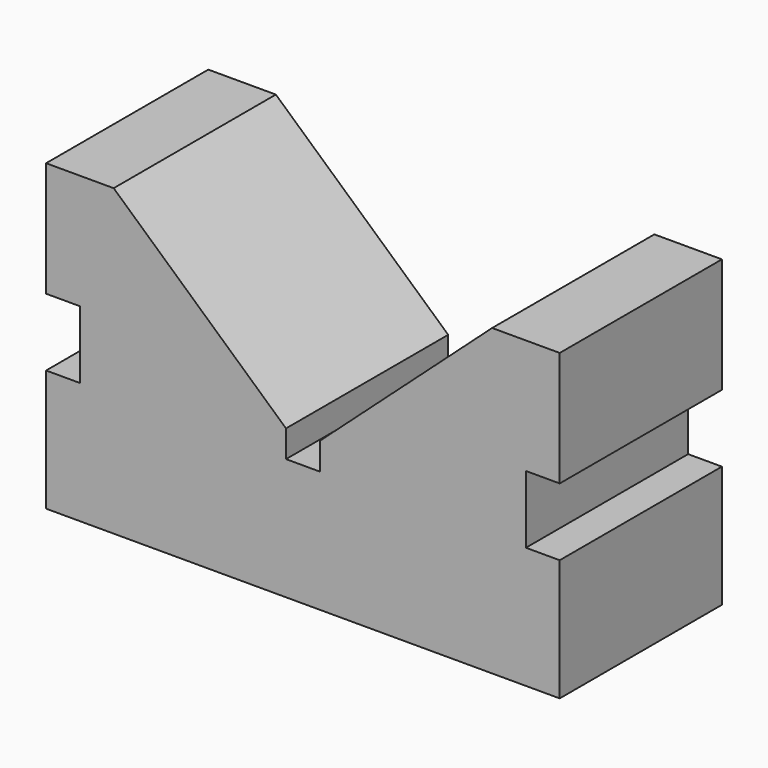
from build123d import *

# Parameters (mm, degrees)
PAD_DEPTH = 30


with BuildPart() as part:
    # Sketch → Pad (new body)
    with BuildSketch(Plane.XZ):
        Polygon((0, 0), (-38, 0), (-38, 18), (-33, 18), (-33, 28), (-38, 28), (-38, 45), (-28, 45), (-2.5, 22), (-2.5, 18), (0, 18), (2.5, 18), (2.5, 22), (28, 45), (38, 45), (38, 28), (33, 28), (33, 18), (38, 18), (38, 0), align=None)
    extrude(amount=PAD_DEPTH)


solid = part.part
